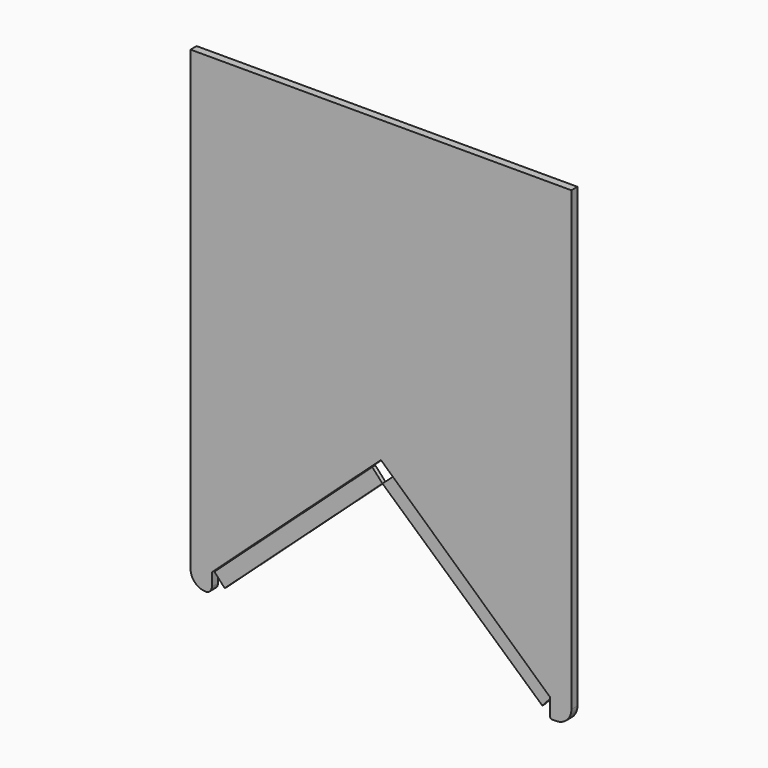
from build123d import *

# Parameters (mm, degrees)
F1_DEPTH = 3.175
F3_DEPTH = 1.5875


with BuildPart() as f1:
    # F0 (on Front) → F1 (new body)
    with BuildSketch(Plane.XZ):
        with BuildLine():
            Line((74.7572204843, 89.4156580232), (-83.9927795157, 89.4156580232))
            Line((-83.9927795157, 89.4156580232), (-83.9927795157, -101.0843419768))
            ThreePointArc((-83.9927795157, -101.0843419768), (-82.1678205533, -105.5392834588), (-77.7419122375, -107.4335681267))
            ThreePointArc((-77.7419122375, -107.4335681267), (-75.8742501091, -106.6854552728), (-75.0970715066, -104.8296998773))
            Line((-75.0970715066, -104.8296998773), (-75.0970715066, -99.4634811212))
            Line((-75.0970715066, -99.4634811212), (-9.3163989817, -39.6628697349))
            Line((-9.3163989817, -39.6628697349), (-4.6177795157, -35.391397493))
            Line((-4.6177795157, -35.391397493), (0.0808399504, -39.6628697349))
            Line((0.0808399504, -39.6628697349), (65.8615124753, -99.4634811212))
            Line((65.8615124753, -99.4634811212), (65.8615124753, -106.4368922915))
            ThreePointArc((65.8615124753, -106.4368922915), (66.1536587242, -107.1421957278), (66.8589621606, -107.4343419768))
            Line((66.8589621606, -107.4343419768), (68.4072204843, -107.4343419768))
            ThreePointArc((68.4072204843, -107.4343419768), (72.8973485449, -105.5744700373), (74.7572204843, -101.0843419768))
            Line((74.7572204843, -101.0843419768), (74.7572204843, 89.4156580232))
        make_face()
    extrude(amount=F1_DEPTH)


with BuildPart() as f3:
    # F2 (on face) → F3 (new body)
    with BuildSketch(Plane.XZ.offset(3.175)):
        Polygon((0.1235546728, -39.6628697349), (-5.0449267399, -44.3614892009), (61.5900402334, -104.1621005872), (65.8615124753, -99.4634811212), align=None)
    extrude(amount=-F3_DEPTH)


with BuildPart() as f3b:
    # F2 (on face) → F3, piece 2 (new body)
    with BuildSketch(Plane.XZ.offset(3.175)):
        Polygon((-5.0449267399, -44.3614892009), (-9.3163989817, -39.6628697349), (-75.0970715066, -99.4634811212), (-70.8255992648, -104.1621005872), align=None)
    extrude(amount=-F3_DEPTH)


with BuildPart() as f3b_1:
    # F4: moved
    add(f3b.part.moved(Location((0, 0.79375, 0))))


with BuildPart() as f3_1:
    # F4: moved
    add(f3.part.moved(Location((0, 0.79375, 0))))


with BuildPart() as f3b_2:
    # F5: moved
    add(f3b_1.part.moved(Location((0.42672, 0, 0))))


with BuildPart() as f3_2:
    # F5: moved
    add(f3_1.part.moved(Location((0.42672, 0, 0))))


solid = Compound([f1.part, f3b_2.part, f3_2.part])
